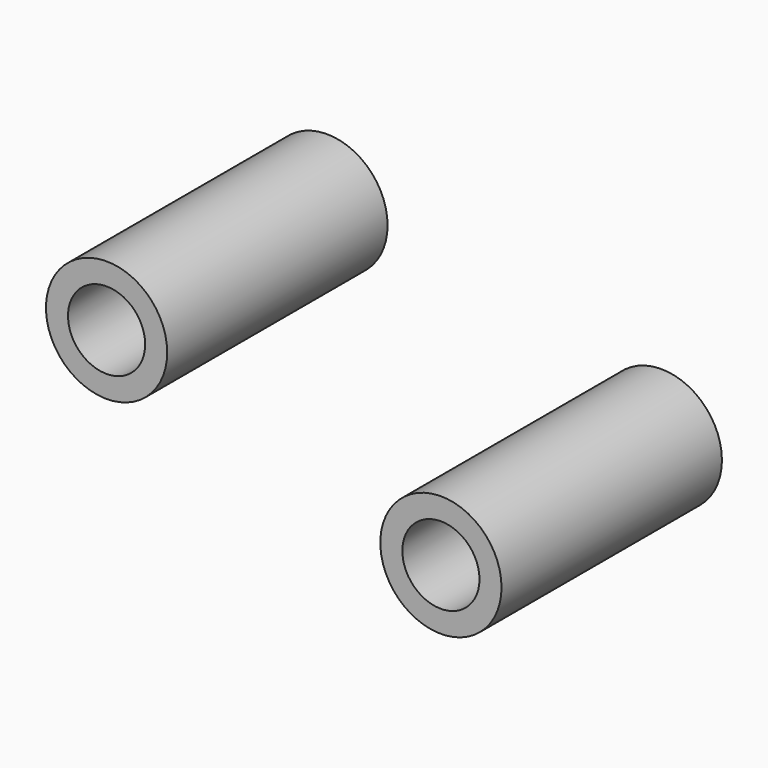
from build123d import *

# Parameters (mm, degrees)
F0_R     = 13.97
F1_DEPTH = 63.5
F2_R     = 8.89
F3_DEPTH = 63.5
F4_R     = 8.89
F5_DEPTH = 63.5


with BuildPart() as f1:
    # F0 (on Front) → F1 (new body)
    with BuildSketch(Plane.XZ):
        with Locations((-59.466895, 42.167433)):
            Circle(F0_R)
        with Locations((17.594336, 19.560184)):
            Circle(F0_R)
    extrude(amount=F1_DEPTH)

    # F2 (on face) → F3 (cut)
    with BuildSketch(Plane.XZ.offset(63.5)):
        with Locations((-59.466895, 42.167433)):
            Circle(F2_R)
    extrude(amount=-F3_DEPTH, mode=Mode.SUBTRACT)

    # F4 (on face) → F5 (cut)
    with BuildSketch(Plane.XZ.offset(63.5)):
        with Locations((17.594336, 19.560184)):
            Circle(F4_R)
    extrude(amount=-F5_DEPTH, mode=Mode.SUBTRACT)


solid = f1.part
